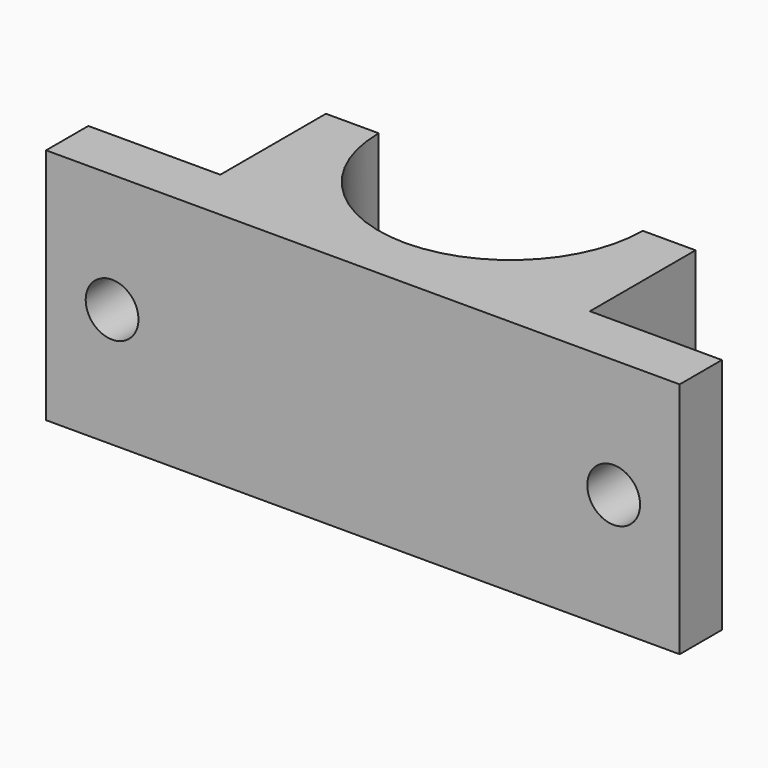
from build123d import *

# Parameters (mm, degrees)
F1_DEPTH = 57.15
F3_R     = 6.35
F4_DEPTH = 12.701
F2_R     = 6.35
F5_DEPTH = 12.701


with BuildPart() as f1:
    # F0 (on Top) → F1 (new body)
    with BuildSketch(Plane.XY):
        with BuildLine():
            Line((-72.582327, -5.649446), (-72.582327, -18.349446))
            Line((-72.582327, -18.349446), (79.817673, -18.349446))
            Line((79.817673, -18.349446), (79.817673, -5.649446))
            Line((79.817673, -5.649446), (48.067673, -5.649446))
            Line((48.067673, -5.649446), (48.067673, 26.100554))
            Line((48.067673, 26.100554), (35.367673, 26.100554))
            ThreePointArc((35.367673, 26.100554), (3.617673, -5.649446), (-28.132327, 26.100554))
            Line((-28.132327, 26.100554), (-40.832327, 26.100554))
            Line((-40.832327, 26.100554), (-40.832327, -5.649446))
            Line((-40.832327, -5.649446), (-72.582327, -5.649446))
        make_face()
    extrude(amount=F1_DEPTH)

    # F3 (on face) → F4 (cut, through all)
    with BuildSketch(Plane(origin=(0, -5.649446, 0), x_dir=(-1, 0, 0), z_dir=(0, 1, 0))):
        with Locations((56.707327, 28.575)):
            Circle(F3_R)
    extrude(amount=-F4_DEPTH, mode=Mode.SUBTRACT)

    # F2 (on face) → F5 (cut, through all)
    with BuildSketch(Plane(origin=(0, -5.649446, 0), x_dir=(-1, 0, 0), z_dir=(0, 1, 0))):
        with Locations((-63.942673, 28.575)):
            Circle(F2_R)
    extrude(amount=-F5_DEPTH, mode=Mode.SUBTRACT)


solid = f1.part
